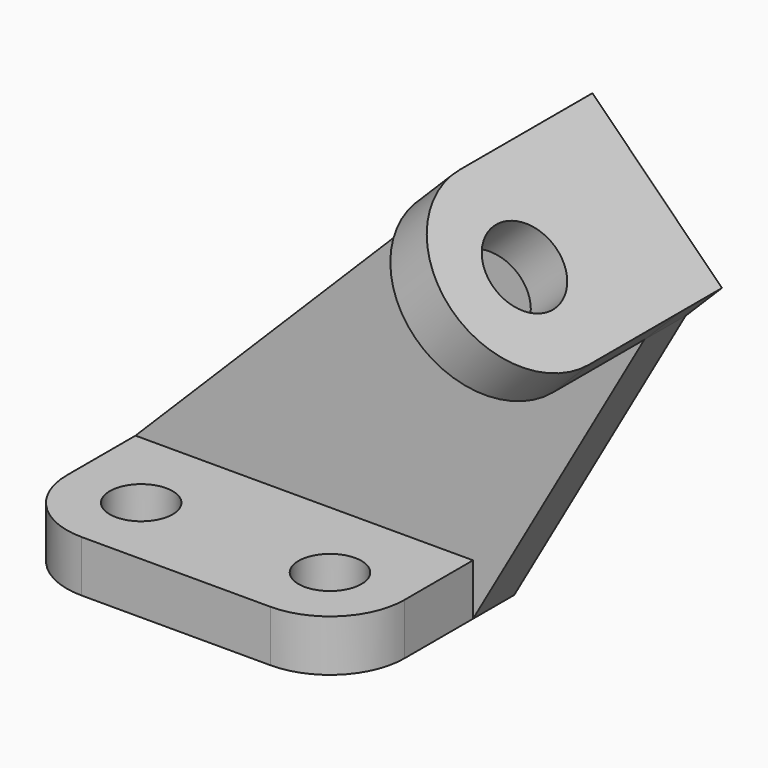
from build123d import *

# Parameters (mm, degrees)
F0_R     = 5.5
F1_DEPTH = 9
F3_DEPTH = 9
F4_R     = 7
F5_DEPTH = 9


with BuildPart() as f1:
    # F0 (on Top) → F1 (new body)
    with BuildSketch(Plane.XY):
        with BuildLine():
            Line((-46, 15), (-46, 0))
            ThreePointArc((-46, 0), (-42.192388, -9.192388), (-33, -13))
            Line((-33, -13), (0, -13))
            ThreePointArc((0, -13), (9.192388, -9.192388), (13, 0))
            Line((13, 0), (13, 15))
            Line((13, 15), (-46, 15))
        make_face()
        with Locations((-33, 0)):
            Circle(F0_R, mode=Mode.SUBTRACT)
        Circle(F0_R, mode=Mode.SUBTRACT)
    extrude(amount=F1_DEPTH)

    # F2 (on face) → F3 (join)
    with BuildSketch(Plane(origin=(0, 15, 0), x_dir=(-1, 0, 0), z_dir=(0, 1, 0))):
        Polygon((46, 0), (46, 9), (-20.313708, 75.313708), (-42.941125, 52.686292), (-13, 0), align=None)
    extrude(amount=F3_DEPTH)

    # F4 (on face) → F5 (join)
    with BuildSketch(Plane(origin=(47.813708, 0, 47.813708), x_dir=(0.707107, 0, -0.707107), z_dir=(0.707107, 0, 0.707107))):
        with BuildLine():
            Line((-6.890873, 15), (-6.890873, 24))
            Line((-6.890873, 24), (-38.890873, 24))
            Line((-38.890873, 24), (-38.890873, 15))
            Line((-38.890873, 15), (-38.890875, -5))
            ThreePointArc((-38.890875, -5), (-22.890875, -21), (-6.890875, -5))
            Line((-6.890875, -5), (-6.890873, 15))
        make_face()
        with Locations((-22.890875, -5)):
            Circle(F4_R, mode=Mode.SUBTRACT)
    extrude(amount=F5_DEPTH)


solid = f1.part
